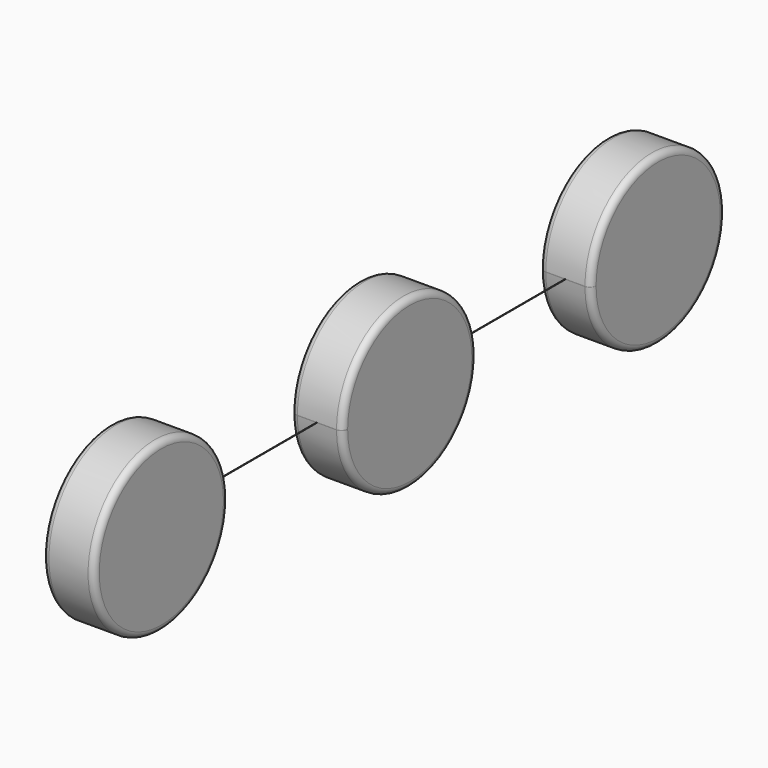
from build123d import *

# Parameters (mm, degrees)
F1_DEPTH = 83
F2_R     = 20
F2_2_R   = 20
F2_3_R   = 20
F3_DEPTH = 0.5


with BuildPart() as f1:
    # F0 (on Right) → F1 (new body, symmetric)
    with BuildSketch(Plane.YZ):
        with BuildLine():
            ThreePointArc((-264.9251804996, 1), (-804.9228656765, -0.5000008573), (-264.9233286414, 0))
            Line((-264.9233286414, 0), (-534.9233286414, 0))
            Line((-534.9233286414, 0), (-534.9233286414, 1))
            Line((-534.9233286414, 1), (-264.9251804996, 1))
        make_face()
        with BuildLine():
            Line((-534.9233286414, 0), (-264.9233286414, 0))
            ThreePointArc((-264.9233286414, 0), (-264.9237916064, 0.5000008573), (-264.9251804996, 1))
            Line((-264.9251804996, 1), (-534.9233286414, 1))
            Line((-534.9233286414, 1), (-534.9233286414, 0))
        make_face()
    extrude(amount=F1_DEPTH, both=True)

    # F2
    f2_edges = [f1.edges().sort_by_distance(p)[0] for p in [
        (83, -804.923329, 0),
        (-83, -804.923329, 0),
    ]]
    fillet(f2_edges, radius=F2_R)



with BuildPart() as f1b:
    # F0 (on Right) → F1, piece 2 (new body, symmetric)
    with BuildSketch(Plane.YZ):
        with BuildLine():
            ThreePointArc((735.0748195004, 1), (465.0766713586, 270), (195.0785232168, 1))
            Line((195.0785232168, 1), (735.0748195004, 1))
        make_face()
        with BuildLine():
            Line((735.0766713586, 0), (195.0766713586, 0))
            ThreePointArc((195.0766713586, 0), (465.0766713586, -270), (735.0766713586, 0))
        make_face()
        with BuildLine():
            ThreePointArc((195.0785232168, 1), (195.0771343235, 0.5000008573), (195.0766713586, 0))
            Line((195.0766713586, 0), (735.0766713586, 0))
            ThreePointArc((735.0766713586, 0), (735.0762083936, 0.5000008573), (735.0748195004, 1))
            Line((735.0748195004, 1), (195.0785232168, 1))
        make_face()
    extrude(amount=F1_DEPTH, both=True)

    # F2#2
    f2_2_edges = [f1b.edges().sort_by_distance(p)[0] for p in [
        (83, 735.07482, -1),
        (-83, 735.07482, -1),
    ]]
    fillet(f2_2_edges, radius=F2_2_R)


with BuildPart() as f1c:
    # F0 (on Right) → F1, piece 3 (new body, symmetric)
    with BuildSketch(Plane.YZ):
        with BuildLine():
            Line((1465.0766713586, 0), (1195.0766713586, 0))
            ThreePointArc((1195.0766713586, 0), (1465.0766713586, -270), (1735.0766713586, 0))
            ThreePointArc((1735.0766713586, 0), (1465.5766722159, 269.9995370351), (1195.0785232168, 1))
            Line((1195.0785232168, 1), (1465.0766713586, 1))
            Line((1465.0766713586, 1), (1465.0766713586, 0))
        make_face()
        with BuildLine():
            ThreePointArc((1195.0785232168, 1), (1195.0771343235, 0.5000008573), (1195.0766713586, 0))
            Line((1195.0766713586, 0), (1465.0766713586, 0))
            Line((1465.0766713586, 0), (1465.0766713586, 1))
            Line((1465.0766713586, 1), (1195.0785232168, 1))
        make_face()
    extrude(amount=F1_DEPTH, both=True)

    # F2#3
    f2_3_edges = [f1c.edges().sort_by_distance(p)[0] for p in [
        (83, 1195.076671, 0),
        (-83, 1195.076671, 0),
    ]]
    fillet(f2_3_edges, radius=F2_3_R)


with BuildPart() as f1_1:
    add(f1.part)

    add(f1b.part)  # F3 merges F1b

    add(f1c.part)  # F3 merges F1c
    # F0 (on Right) → F3 (join, symmetric)
    with BuildSketch(Plane.YZ):
        with BuildLine():
            Line((-534.9233286414, 0), (-264.9233286414, 0))
            ThreePointArc((-264.9233286414, 0), (-264.9237916064, 0.5000008573), (-264.9251804996, 1))
            Line((-264.9251804996, 1), (-534.9233286414, 1))
            Line((-534.9233286414, 1), (-534.9233286414, 0))
        make_face()
        with BuildLine():
            ThreePointArc((-264.9251804996, 1), (-804.9228656765, -0.5000008573), (-264.9233286414, 0))
            Line((-264.9233286414, 0), (-534.9233286414, 0))
            Line((-534.9233286414, 0), (-534.9233286414, 1))
            Line((-534.9233286414, 1), (-264.9251804996, 1))
        make_face()
        with BuildLine():
            ThreePointArc((-264.9251804996, 1), (-264.9237916064, 0.5000008573), (-264.9233286414, 0))
            Line((-264.9233286414, 0), (195.0766713586, 0))
            ThreePointArc((195.0766713586, 0), (195.0771343235, 0.5000008573), (195.0785232168, 1))
            Line((195.0785232168, 1), (-264.9251804996, 1))
        make_face()
        with BuildLine():
            Line((735.0766713586, 0), (195.0766713586, 0))
            ThreePointArc((195.0766713586, 0), (465.0766713586, -270), (735.0766713586, 0))
        make_face()
        with BuildLine():
            ThreePointArc((195.0785232168, 1), (195.0771343235, 0.5000008573), (195.0766713586, 0))
            Line((195.0766713586, 0), (735.0766713586, 0))
            ThreePointArc((735.0766713586, 0), (735.0762083936, 0.5000008573), (735.0748195004, 1))
            Line((735.0748195004, 1), (195.0785232168, 1))
        make_face()
        with BuildLine():
            ThreePointArc((735.0748195004, 1), (465.0766713586, 270), (195.0785232168, 1))
            Line((195.0785232168, 1), (735.0748195004, 1))
        make_face()
        with BuildLine():
            ThreePointArc((735.0748195004, 1), (735.0762083936, 0.5000008573), (735.0766713586, 0))
            Line((735.0766713586, 0), (1195.0766713586, 0))
            ThreePointArc((1195.0766713586, 0), (1195.0771343235, 0.5000008573), (1195.0785232168, 1))
            Line((1195.0785232168, 1), (735.0748195004, 1))
        make_face()
        with BuildLine():
            Line((1465.0766713586, 0), (1195.0766713586, 0))
            ThreePointArc((1195.0766713586, 0), (1465.0766713586, -270), (1735.0766713586, 0))
            ThreePointArc((1735.0766713586, 0), (1465.5766722159, 269.9995370351), (1195.0785232168, 1))
            Line((1195.0785232168, 1), (1465.0766713586, 1))
            Line((1465.0766713586, 1), (1465.0766713586, 0))
        make_face()
        with BuildLine():
            ThreePointArc((1195.0785232168, 1), (1195.0771343235, 0.5000008573), (1195.0766713586, 0))
            Line((1195.0766713586, 0), (1465.0766713586, 0))
            Line((1465.0766713586, 0), (1465.0766713586, 1))
            Line((1465.0766713586, 1), (1195.0785232168, 1))
        make_face()
    extrude(amount=F3_DEPTH, both=True)


solid = f1_1.part
